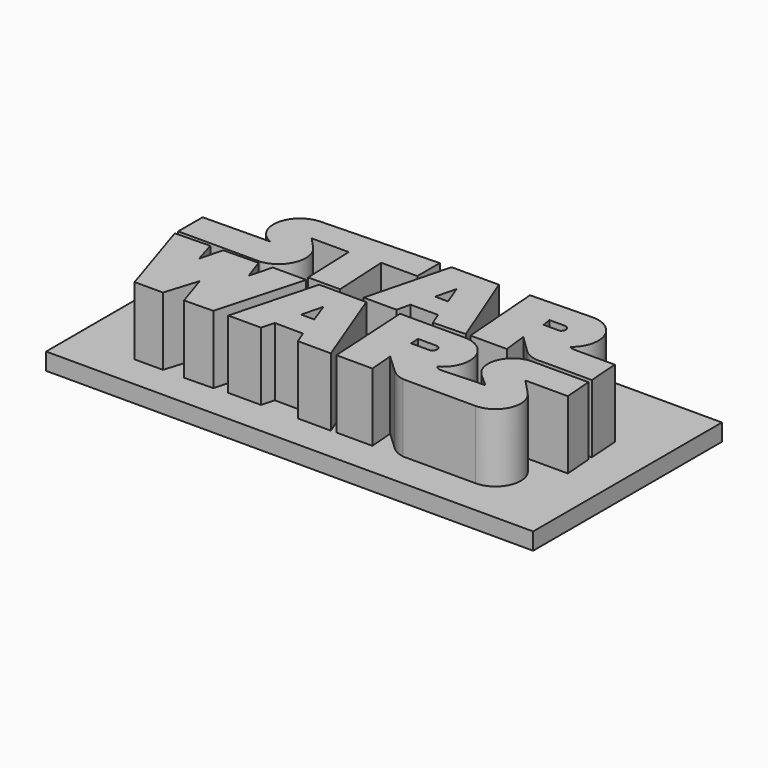
from build123d import *

# Parameters (mm, degrees)
F1_DEPTH = 25
F0_W     = 143.111918
F0_H     = 69.339235
F2_DEPTH = 5


with BuildPart() as f1:
    # F0 (on Top) → F1 (new body)
    with BuildSketch(Plane.XY):
        with BuildLine():
            Line((68.026185, -20.867173), (68.617173, -36.539584))
            Line((68.617173, -36.539584), (78.015894, -36.539584))
            Line((78.015894, -36.539584), (77.152871, -20.369122))
            Line((77.152871, -20.369122), (87.759383, -20.369122))
            Line((87.759383, -20.369122), (87.759383, -12.112058))
            Line((87.759383, -12.112058), (53.487677, -13.108594))
            ThreePointArc((53.487677, -13.108594), (46.061716, -19.424131), (50.609604, -28.046638))
            Line((50.609604, -28.046638), (31.031653, -28.308601))
            Line((31.031653, -28.308601), (31.031653, -37.280031))
            Line((31.031653, -37.280031), (55.133983, -37.280031))
            ThreePointArc((55.133983, -37.280031), (61.698825, -32.141934), (60.032848, -23.973599))
            Line((60.032848, -23.973599), (57.108883, -20.867173))
            Line((57.108883, -20.867173), (68.026185, -20.867173))
        make_face()
        Polygon((105.053104, -12.010724), (91.135584, -12.010724), (84.83661, -36.394108), (94.52223, -36.394108), (95.396809, -32.452498), (103.535019, -32.452498), (105.020173, -36.205273), (114.459507, -35.911296), align=None)
        Polygon((97.313747, -25.79012), (98.827854, -19.794889), (101.139069, -25.79012), align=None, mode=Mode.SUBTRACT)
        with BuildLine():
            Line((131.78201, -11.227111), (113.897443, -11.652431))
            Line((113.897443, -11.652431), (115.743749, -35.825476))
            Line((115.743749, -35.825476), (126.45033, -35.825476))
            Line((126.45033, -35.825476), (125.634372, -28.761327))
            Line((125.634372, -28.761327), (130.690619, -33.687942))
            ThreePointArc((130.690619, -33.687942), (133.463465, -35.37453), (136.694461, -35.680991))
            Line((136.694461, -35.680991), (151.302382, -35.680991))
            Line((151.302382, -35.680991), (150.644794, -26.427738))
            Line((150.644794, -26.427738), (138.855115, -26.427738))
            ThreePointArc((138.855115, -26.427738), (137.977625, -26.30813), (137.164161, -25.958031))
            ThreePointArc((137.164161, -25.958031), (139.755169, -16.662687), (131.78201, -11.227111))
        make_face()
        with BuildLine():
            Line((125.515401, -21.167008), (125.09267, -18.489672))
            Line((125.09267, -18.489672), (129.648834, -18.489672))
            ThreePointArc((129.648834, -18.489672), (131.016847, -19.599668), (130.212486, -21.167008))
            Line((130.212486, -21.167008), (125.515401, -21.167008))
        make_face(mode=Mode.SUBTRACT)
        Polygon((41.282039, -38.288295), (31.031653, -38.518123), (38.964249, -63.2082), (47.29436, -63.2082), (50.33138, -53.489737), (53.513672, -63.243374), (62.026836, -63.088588), (69.022723, -37.755728), (59.221979, -37.755728), (57.42931, -44.370193), (55.199966, -37.98094), (44.980645, -38.179487), (43.25857, -44.907376), align=None)
        Polygon((72.853252, -37.772384), (66.118941, -62.770806), (75.71537, -62.770806), (76.77637, -58.981303), (85.125998, -59.049692), (86.547881, -62.727548), (96.255772, -62.742777), (86.702734, -37.772384), align=None)
        Polygon((78.908734, -51.962249), (80.483802, -45.714427), (82.749523, -51.962249), align=None, mode=Mode.SUBTRACT)
        with BuildLine():
            Line((115.147628, -37.429046), (96.355252, -37.449136))
            Line((96.355252, -37.449136), (97.814448, -62.66135))
            Line((97.814448, -62.66135), (108.412959, -62.66135))
            Line((108.412959, -62.66135), (107.84024, -55.428755))
            Line((107.84024, -55.428755), (113.168649, -60.425337))
            ThreePointArc((113.168649, -60.425337), (115.060283, -61.727725), (117.25273, -62.411588))
            Line((117.25273, -62.411588), (138.483346, -62.411588))
            ThreePointArc((138.483346, -62.411588), (145.275511, -57.938441), (143.848777, -49.931757))
            Line((143.848777, -49.931757), (139.533184, -45.379543))
            Line((139.533184, -45.379543), (151.990801, -45.379543))
            Line((151.990801, -45.379543), (151.374489, -37.026424))
            Line((151.374489, -37.026424), (134.842068, -37.026424))
            ThreePointArc((134.842068, -37.026424), (128.118536, -41.660125), (130.055383, -49.592696))
            Line((130.055383, -49.592696), (133.803237, -52.932523))
            Line((133.803237, -52.932523), (121.190272, -53.47557))
            ThreePointArc((121.190272, -53.47557), (120.220246, -53.26627), (119.476542, -52.609261))
            ThreePointArc((119.476542, -52.609261), (123.110619, -43.365596), (115.147628, -37.429046))
        make_face()
        with BuildLine():
            Line((107.528724, -47.351223), (107.370727, -44.621315))
            Line((107.370727, -44.621315), (112.734132, -44.615581))
            ThreePointArc((112.734132, -44.615581), (114.103415, -45.983402), (112.734132, -47.351223))
            Line((112.734132, -47.351223), (107.528724, -47.351223))
        make_face(mode=Mode.SUBTRACT)
    extrude(amount=F1_DEPTH)


with BuildPart() as f2:
    # F0 (on Top) → F2 (new body)
    with BuildSketch(Plane.XY):
        with Locations((92.223374, -38.17374)):
            Rectangle(F0_W, F0_H)
        Polygon((38.964249, -63.2082), (31.031653, -38.518123), (41.282039, -38.288295), (43.25857, -44.907376), (44.980645, -38.179487), (55.199966, -37.98094), (57.42931, -44.370193), (59.221979, -37.755728), (69.022723, -37.755728), (62.026836, -63.088588), (53.513672, -63.243374), (50.33138, -53.489737), (47.29436, -63.2082), align=None, mode=Mode.SUBTRACT)
        Polygon((75.71537, -62.770806), (66.118941, -62.770806), (72.853252, -37.772384), (86.702734, -37.772384), (96.255772, -62.742777), (86.547881, -62.727548), (85.125998, -59.049692), (76.77637, -58.981303), align=None, mode=Mode.SUBTRACT)
        with BuildLine():
            Line((97.814448, -62.66135), (96.355252, -37.449136))
            Line((96.355252, -37.449136), (115.147628, -37.429046))
            ThreePointArc((115.147628, -37.429046), (123.110619, -43.365596), (119.476542, -52.609261))
            ThreePointArc((119.476542, -52.609261), (120.220246, -53.26627), (121.190272, -53.47557))
            Line((121.190272, -53.47557), (133.803237, -52.932523))
            Line((133.803237, -52.932523), (130.055383, -49.592696))
            ThreePointArc((130.055383, -49.592696), (128.118536, -41.660125), (134.842068, -37.026424))
            Line((134.842068, -37.026424), (151.374489, -37.026424))
            Line((151.374489, -37.026424), (151.990801, -45.379543))
            Line((151.990801, -45.379543), (139.533184, -45.379543))
            Line((139.533184, -45.379543), (143.848777, -49.931757))
            ThreePointArc((143.848777, -49.931757), (145.275511, -57.938441), (138.483346, -62.411588))
            Line((138.483346, -62.411588), (117.25273, -62.411588))
            ThreePointArc((117.25273, -62.411588), (115.060283, -61.727725), (113.168649, -60.425337))
            Line((113.168649, -60.425337), (107.84024, -55.428755))
            Line((107.84024, -55.428755), (108.412959, -62.66135))
            Line((108.412959, -62.66135), (97.814448, -62.66135))
        make_face(mode=Mode.SUBTRACT)
        with BuildLine():
            Line((78.015894, -36.539584), (68.617173, -36.539584))
            Line((68.617173, -36.539584), (68.026185, -20.867173))
            Line((68.026185, -20.867173), (57.108883, -20.867173))
            Line((57.108883, -20.867173), (60.032848, -23.973599))
            ThreePointArc((60.032848, -23.973599), (61.698825, -32.141934), (55.133983, -37.280031))
            Line((55.133983, -37.280031), (31.031653, -37.280031))
            Line((31.031653, -37.280031), (31.031653, -28.308601))
            Line((31.031653, -28.308601), (50.609604, -28.046638))
            ThreePointArc((50.609604, -28.046638), (46.061716, -19.424131), (53.487677, -13.108594))
            Line((53.487677, -13.108594), (87.759383, -12.112058))
            Line((87.759383, -12.112058), (87.759383, -20.369122))
            Line((87.759383, -20.369122), (77.152871, -20.369122))
            Line((77.152871, -20.369122), (78.015894, -36.539584))
        make_face(mode=Mode.SUBTRACT)
        Polygon((84.83661, -36.394108), (91.135584, -12.010724), (105.053104, -12.010724), (114.459507, -35.911296), (105.020173, -36.205273), (103.535019, -32.452498), (95.396809, -32.452498), (94.52223, -36.394108), align=None, mode=Mode.SUBTRACT)
        with BuildLine():
            Line((115.743749, -35.825476), (113.897443, -11.652431))
            Line((113.897443, -11.652431), (131.78201, -11.227111))
            ThreePointArc((131.78201, -11.227111), (139.755169, -16.662687), (137.164161, -25.958031))
            ThreePointArc((137.164161, -25.958031), (137.977625, -26.30813), (138.855115, -26.427738))
            Line((138.855115, -26.427738), (150.644794, -26.427738))
            Line((150.644794, -26.427738), (151.302382, -35.680991))
            Line((151.302382, -35.680991), (136.694461, -35.680991))
            ThreePointArc((136.694461, -35.680991), (133.463465, -35.37453), (130.690619, -33.687942))
            Line((130.690619, -33.687942), (125.634372, -28.761327))
            Line((125.634372, -28.761327), (126.45033, -35.825476))
            Line((126.45033, -35.825476), (115.743749, -35.825476))
        make_face(mode=Mode.SUBTRACT)
        Polygon((101.139069, -25.79012), (98.827854, -19.794889), (97.313747, -25.79012), align=None)
        with BuildLine():
            Line((129.648834, -18.489672), (125.09267, -18.489672))
            Line((125.09267, -18.489672), (125.515401, -21.167008))
            Line((125.515401, -21.167008), (130.212486, -21.167008))
            ThreePointArc((130.212486, -21.167008), (131.016847, -19.599668), (129.648834, -18.489672))
        make_face()
        with BuildLine():
            Line((112.734132, -44.615581), (107.370727, -44.621315))
            Line((107.370727, -44.621315), (107.528724, -47.351223))
            Line((107.528724, -47.351223), (112.734132, -47.351223))
            ThreePointArc((112.734132, -47.351223), (114.103415, -45.983402), (112.734132, -44.615581))
        make_face()
        Polygon((82.749523, -51.962249), (80.483802, -45.714427), (78.908734, -51.962249), align=None)
    extrude(amount=F2_DEPTH)


solid = Compound([f1.part, f2.part])
